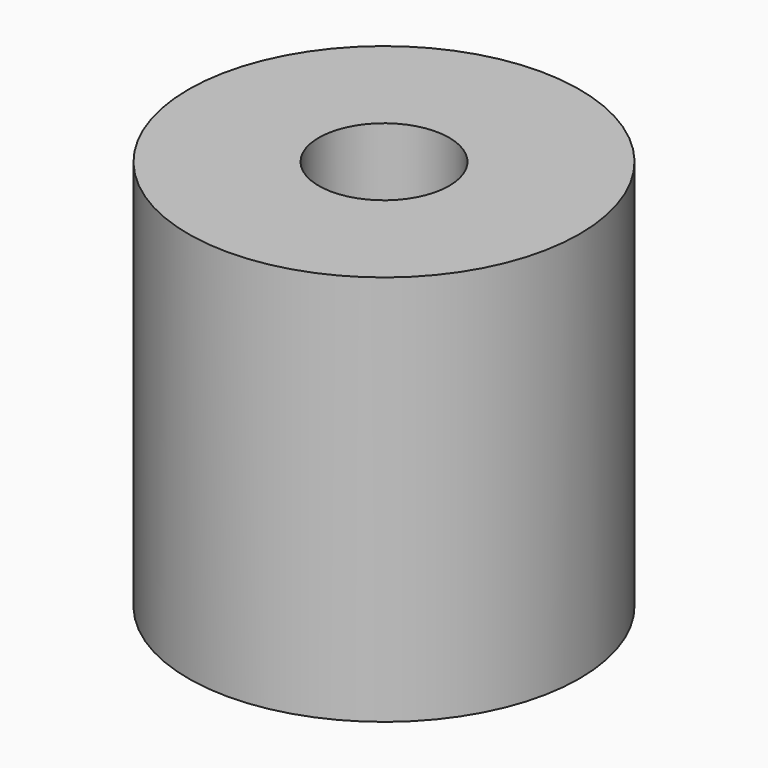
from build123d import *

# Parameters (mm, degrees)
SKETCH_R   = 1500
SKETCH_R_2 = 500
PAD_DEPTH  = 3000


with BuildPart() as part:
    # Sketch → Pad (new body)
    with BuildSketch(Plane.XY):
        Circle(SKETCH_R)
        Circle(SKETCH_R_2, mode=Mode.SUBTRACT)
    extrude(amount=PAD_DEPTH)


solid = part.part
